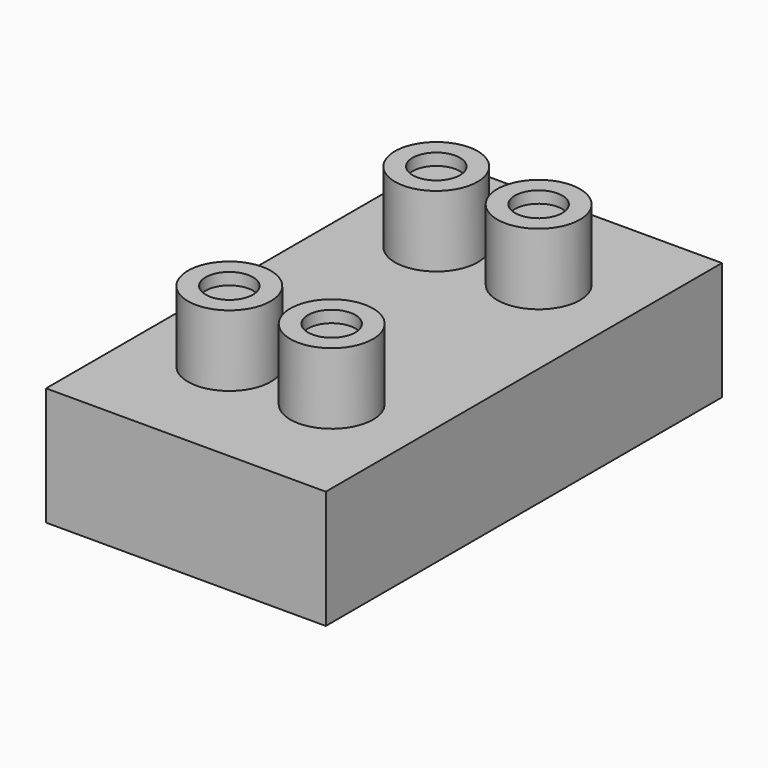
from build123d import *

# Parameters (mm, degrees)
F0_W     = 60.086440295
F0_H     = 106.3739694655
F1_DEPTH = 25.4
F3_DEPTH = 12.7
F4_R     = 8.89
F4_R_2   = 5.08
F5_DEPTH = 15.24
F7_DEPTH = 12.7


with BuildPart() as f1:
    # F0 (on Top) → F1 (new body)
    with BuildSketch(Plane.XY):
        with Locations((-30.0432201475, -10.3531312197)):
            Rectangle(F0_W, F0_H)
    extrude(amount=F1_DEPTH)

    # F2 (on face) → F3 (join)
    with BuildSketch(Plane.XY.offset(25.4)):
        with BuildLine():
            ThreePointArc((-10.16, -38.1401159525), (-25.3361792847, -31.8539366677), (-19.05, -47.0301159525))
            Line((-19.05, -47.0301159525), (-19.05, -38.1401159525))
            Line((-19.05, -38.1401159525), (-10.16, -38.1401159525))
        make_face()
        with BuildLine():
            Line((-19.05, -38.1401159525), (-19.05, -47.0301159525))
            ThreePointArc((-19.05, -47.0301159525), (-12.7638207153, -44.4262952372), (-10.16, -38.1401159525))
            Line((-10.16, -38.1401159525), (-19.05, -38.1401159525))
        make_face()
        with BuildLine():
            ThreePointArc((-49.926440295, -38.1401159525), (-47.3226195797, -44.4262952372), (-41.036440295, -47.0301159525))
            Line((-41.036440295, -47.0301159525), (-41.036440295, -38.1401159525))
            Line((-41.036440295, -38.1401159525), (-49.926440295, -38.1401159525))
        make_face()
        with BuildLine():
            Line((-41.036440295, -38.1401159525), (-41.036440295, -47.0301159525))
            ThreePointArc((-41.036440295, -47.0301159525), (-34.7502610102, -44.4262952372), (-32.146440295, -38.1401159525))
            ThreePointArc((-32.146440295, -38.1401159525), (-41.036440295, -29.2501159525), (-49.926440295, -38.1401159525))
            Line((-49.926440295, -38.1401159525), (-41.036440295, -38.1401159525))
        make_face()
        with BuildLine():
            ThreePointArc((-41.036440295, 26.323853513), (-47.3226195797, 23.7200327978), (-49.926440295, 17.433853513))
            Line((-49.926440295, 17.433853513), (-41.036440295, 17.433853513))
            Line((-41.036440295, 17.433853513), (-41.036440295, 26.323853513))
        make_face()
        with BuildLine():
            Line((-41.036440295, 17.433853513), (-49.926440295, 17.433853513))
            ThreePointArc((-49.926440295, 17.433853513), (-41.036440295, 8.543853513), (-32.146440295, 17.433853513))
            ThreePointArc((-32.146440295, 17.433853513), (-34.7502610102, 23.7200327978), (-41.036440295, 26.323853513))
            Line((-41.036440295, 26.323853513), (-41.036440295, 17.433853513))
        make_face()
        with BuildLine():
            ThreePointArc((-19.05, 26.323853513), (-25.9314853388, 11.8055980522), (-10.3366687432, 15.6703460962))
            ThreePointArc((-10.3366687432, 15.6703460962), (-10.2042774497, 16.5476861679), (-10.16, 17.433853513))
            ThreePointArc((-10.16, 17.433853513), (-12.7638207153, 23.7200327978), (-19.05, 26.323853513))
        make_face()
    extrude(amount=F3_DEPTH)

    # F4 (on face) → F5 (join)
    with BuildSketch(Plane.XY.offset(25.4)):
        with Locations((-41.036440295, -38.1401159525)):
            Circle(F4_R)
        with Locations((-41.036440295, -38.1401159525)):
            Circle(F4_R_2, mode=Mode.SUBTRACT)
        with Locations((-19.05, -38.1401159525)):
            Circle(F4_R)
        with Locations((-19.05, -38.1401159525)):
            Circle(F4_R_2, mode=Mode.SUBTRACT)
        with Locations((-41.036440295, 17.433853513)):
            Circle(F4_R)
        with Locations((-41.036440295, 17.433853513)):
            Circle(F4_R_2, mode=Mode.SUBTRACT)
        with Locations((-19.05, 17.433853513)):
            Circle(F4_R)
        with Locations((-19.05, 17.433853513)):
            Circle(F4_R_2, mode=Mode.SUBTRACT)
    extrude(amount=F5_DEPTH)

    # F6 (on face) → F7 (cut)
    with BuildSketch(Plane(origin=(0, 0, 0), x_dir=(1, 0, 0), z_dir=(0, 0, -1))):
        with BuildLine():
            Line((-53.6326494753, 38.1401159525), (-48.3460910618, 38.1401159525))
            Line((-48.3460910618, 38.1401159525), (-48.3460910618, 46.6701357601))
            ThreePointArc((-48.3460910618, 46.6701357601), (-52.20384553, 43.1578080957), (-53.6326494753, 38.1401159525))
        make_face()
        with BuildLine():
            Line((-34.5826494753, 38.1401159525), (-48.3460910618, 38.1401159525))
            Line((-48.3460910618, 38.1401159525), (-53.6326494753, 38.1401159525))
            ThreePointArc((-53.6326494753, 38.1401159525), (-44.1076494753, 28.6151159525), (-34.5826494753, 38.1401159525))
        make_face()
        with BuildLine():
            Line((-48.3460910618, 46.6701357601), (-48.3460910618, 38.1401159525))
            Line((-48.3460910618, 38.1401159525), (-34.5826494753, 38.1401159525))
            ThreePointArc((-34.5826494753, 38.1401159525), (-39.0899573321, 46.2363120072), (-48.3460910618, 46.6701357601))
        make_face()
        with BuildLine():
            Line((-7.6825144947, 38.1401159525), (-26.7325144947, 38.1401159525))
            ThreePointArc((-26.7325144947, 38.1401159525), (-17.2075144947, 28.6151159525), (-7.6825144947, 38.1401159525))
        make_face()
        with BuildLine():
            ThreePointArc((-7.6825144947, 38.1401159525), (-17.2075144947, 47.6651159525), (-26.7325144947, 38.1401159525))
            Line((-26.7325144947, 38.1401159525), (-7.6825144947, 38.1401159525))
        make_face()
        with BuildLine():
            ThreePointArc((-26.7325144947, -17.433853513), (-17.2075144947, -26.958853513), (-7.6825144947, -17.433853513))
            Line((-7.6825144947, -17.433853513), (-26.7325144947, -17.433853513))
        make_face()
        with BuildLine():
            Line((-26.7325144947, -17.433853513), (-7.6825144947, -17.433853513))
            ThreePointArc((-7.6825144947, -17.433853513), (-17.2075144947, -7.908853513), (-26.7325144947, -17.433853513))
        make_face()
        with BuildLine():
            Line((-34.5826494753, -17.433853513), (-50.7258884609, -17.433853513))
            Line((-50.7258884609, -17.433853513), (-50.7258884609, -24.2840022508))
            ThreePointArc((-50.7258884609, -24.2840022508), (-40.3869708637, -26.2021016658), (-34.5826494753, -17.433853513))
        make_face()
        with BuildLine():
            Line((-50.7258884609, -17.433853513), (-53.6326494753, -17.433853513))
            ThreePointArc((-53.6326494753, -17.433853513), (-52.8758976281, -21.1545321247), (-50.7258884609, -24.2840022508))
            Line((-50.7258884609, -24.2840022508), (-50.7258884609, -17.433853513))
        make_face()
        with BuildLine():
            ThreePointArc((-34.5826494753, -17.433853513), (-44.1076494753, -7.908853513), (-53.6326494753, -17.433853513))
            Line((-53.6326494753, -17.433853513), (-50.7258884609, -17.433853513))
            Line((-50.7258884609, -17.433853513), (-34.5826494753, -17.433853513))
        make_face()
    extrude(amount=-F7_DEPTH, mode=Mode.SUBTRACT)


solid = f1.part
